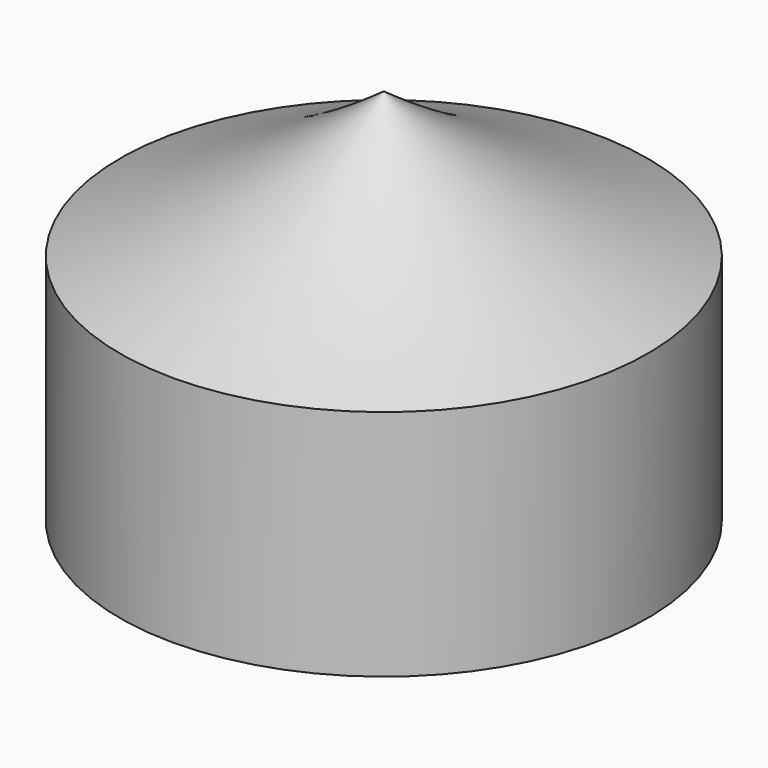
from build123d import *


with BuildPart() as f1:
    # F0 (on Right) → F1 (revolve)
    with BuildSketch(Plane.YZ):
        with BuildLine():
            Line((-34, 0), (-32, 0))
            Line((-32, 0), (-32, 29))
            ThreePointArc((-32, 29), (-15.159414, 36.29637), (0, 46.642118))
            Line((0, 46.642118), (0, 48.671979))
            ThreePointArc((0, 48.671979), (-16.434274, 38.305853), (-34, 30))
            Line((-34, 30), (-34, 0))
        make_face()
    revolve(axis=Axis((0, 0, 23.321059), (0, 0, -1)))


solid = f1.part
